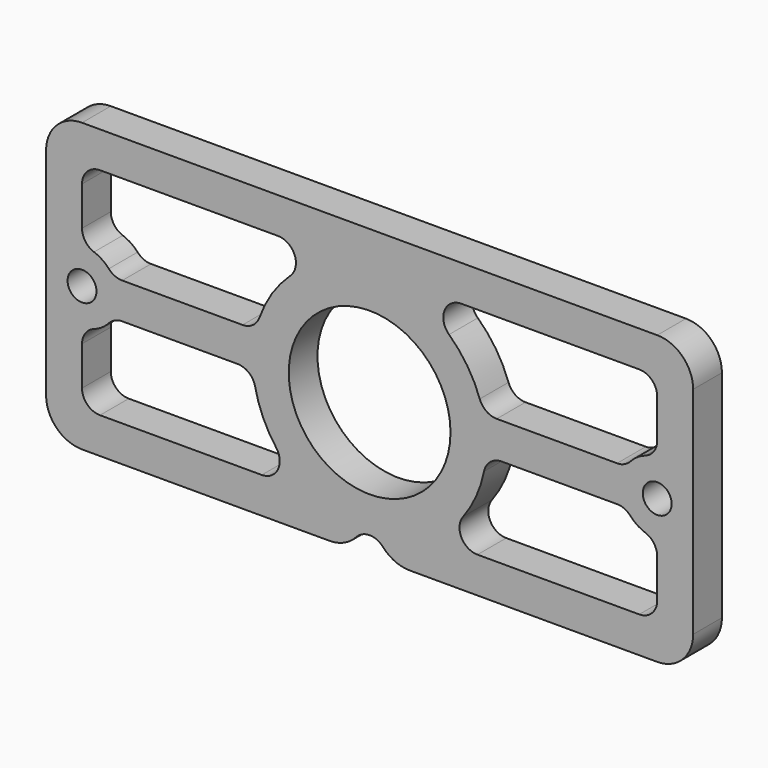
from build123d import *

# Parameters (mm, degrees)
F0_R     = 14.2875
F0_R_2   = 2.5527
F1_DEPTH = 6.35
F2_R     = 6.35
F4_DEPTH = 25.4


with BuildPart() as f1:
    # F0 (on Front) → F1 (new body)
    with BuildSketch(Plane.XZ):
        with BuildLine():
            Line((57.15, 25.4), (-57.15, 25.4))
            Line((-57.15, 25.4), (-57.15, -25.4))
            Line((-57.15, -25.4), (-3.175, -25.4))
            ThreePointArc((-3.175, -25.4), (0, -22.225), (3.175, -25.4))
            Line((3.175, -25.4), (57.15, -25.4))
            Line((57.15, -25.4), (57.15, 25.4))
        make_face()
        with Locations((0, -1.5875)):
            Circle(F0_R, mode=Mode.SUBTRACT)
        with Locations((-50.8, 0)):
            Circle(F0_R_2, mode=Mode.SUBTRACT)
        with Locations((50.8, 0)):
            Circle(F0_R_2, mode=Mode.SUBTRACT)
    extrude(amount=F1_DEPTH)

    # F2
    f2_edges = [f1.edges().sort_by_distance(p)[0] for p in [
        (-57.15, -3.175, 25.4),
        (-57.15, -3.175, -25.4),
        (57.15, -3.175, -25.4),
        (57.15, -3.175, 25.4),
        (-3.175, -3.175, -25.4),
        (3.175, -3.175, -25.4),
    ]]
    fillet(f2_edges, radius=F2_R)

    # F3 (on face) → F4 (cut)
    with BuildSketch(Plane.XZ.offset(6.35)):
        with BuildLine():
            ThreePointArc((-46.066989, 4.233333), (-44.996672, 3.451635), (-43.700484, 3.175))
            Line((-43.700484, 3.175), (-22.45064, 3.175))
            ThreePointArc((-22.45064, 3.175), (-20.617553, 3.757623), (-19.457222, 5.291667))
            ThreePointArc((-19.457222, 5.291667), (-17.245237, 9.748647), (-14.030802, 13.546667))
            ThreePointArc((-14.030802, 13.546667), (-13.233623, 17.034346), (-16.189387, 19.05))
            Line((-16.189387, 19.05), (-47.625, 19.05))
            ThreePointArc((-47.625, 19.05), (-49.870064, 18.120064), (-50.8, 15.875))
            Line((-50.8, 15.875), (-50.8, 8.980256))
            ThreePointArc((-50.8, 8.980256), (-50.217377, 7.147169), (-48.683333, 5.986837))
            ThreePointArc((-48.683333, 5.986837), (-47.264719, 5.274873), (-46.066989, 4.233333))
        make_face()
        with BuildLine():
            Line((-23.33139, -3.175), (-43.700484, -3.175))
            ThreePointArc((-43.700484, -3.175), (-44.996672, -3.451635), (-46.066989, -4.233333))
            ThreePointArc((-46.066989, -4.233333), (-47.264719, -5.274873), (-48.683333, -5.986837))
            ThreePointArc((-48.683333, -5.986837), (-50.217377, -7.147169), (-50.8, -8.980256))
            Line((-50.8, -8.980256), (-50.8, -15.875))
            ThreePointArc((-50.8, -15.875), (-49.870064, -18.120064), (-47.625, -19.05))
            Line((-47.625, -19.05), (-19.05, -19.05))
            ThreePointArc((-19.05, -19.05), (-16.210194, -17.294903), (-16.51, -13.97))
            ThreePointArc((-16.51, -13.97), (-18.823373, -10.048413), (-20.220538, -5.715))
            ThreePointArc((-20.220538, -5.715), (-21.323343, -3.890656), (-23.33139, -3.175))
        make_face()
        with BuildLine():
            ThreePointArc((43.700484, 3.175), (44.996672, 3.451635), (46.066989, 4.233333))
            ThreePointArc((46.066989, 4.233333), (47.264719, 5.274873), (48.683333, 5.986837))
            ThreePointArc((48.683333, 5.986837), (50.217377, 7.147169), (50.8, 8.980256))
            Line((50.8, 8.980256), (50.8, 15.875))
            ThreePointArc((50.8, 15.875), (49.870064, 18.120064), (47.625, 19.05))
            Line((47.625, 19.05), (16.189387, 19.05))
            ThreePointArc((16.189387, 19.05), (13.233623, 17.034346), (14.030802, 13.546667))
            ThreePointArc((14.030802, 13.546667), (17.245237, 9.748647), (19.457222, 5.291667))
            ThreePointArc((19.457222, 5.291667), (20.617553, 3.757623), (22.45064, 3.175))
            Line((22.45064, 3.175), (43.700484, 3.175))
        make_face()
        with BuildLine():
            ThreePointArc((50.8, -8.980256), (50.217377, -7.147169), (48.683333, -5.986837))
            ThreePointArc((48.683333, -5.986837), (47.264719, -5.274873), (46.066989, -4.233333))
            ThreePointArc((46.066989, -4.233333), (44.996672, -3.451635), (43.700484, -3.175))
            Line((43.700484, -3.175), (23.33139, -3.175))
            ThreePointArc((23.33139, -3.175), (21.323343, -3.890656), (20.220538, -5.715))
            ThreePointArc((20.220538, -5.715), (18.823373, -10.048413), (16.51, -13.97))
            ThreePointArc((16.51, -13.97), (16.210194, -17.294903), (19.05, -19.05))
            Line((19.05, -19.05), (47.625, -19.05))
            ThreePointArc((47.625, -19.05), (49.870064, -18.120064), (50.8, -15.875))
            Line((50.8, -15.875), (50.8, -8.980256))
        make_face()
    extrude(amount=-F4_DEPTH, mode=Mode.SUBTRACT)


solid = f1.part
